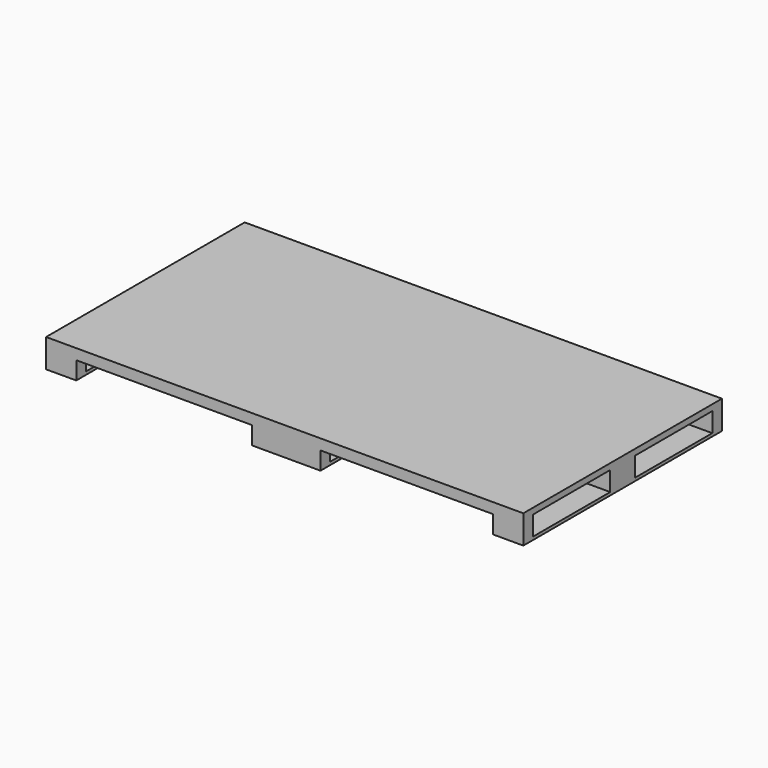
from build123d import *

# Parameters (mm, degrees)
F0_W     = 2008.886
F0_H     = 119.888
F1_DEPTH = 1044.956
F2_W     = 738.8298484659
F2_H     = 75.2589369982
F2_W_2   = 726.7765416155
F3_DEPTH = 1044.956
F4_W     = 406.4
F4_H     = 81.788
F5_DEPTH = 2008.886


with BuildPart() as f1:
    # F0 (on Front) → F1 (new body)
    with BuildSketch(Plane.XZ):
        with Locations((433.0359270411, -67.1071302024)):
            Rectangle(F0_W, F0_H)
    extrude(amount=F1_DEPTH)

    # F2 (on face) → F3 (cut)
    with BuildSketch(Plane(origin=(0, 0, 0), x_dir=(-1, 0, 0), z_dir=(0, 1, 0))):
        with Locations((74.992148726, -89.4216617033)):
            Rectangle(F2_W, F2_H)
        with Locations((-947.0906562333, -89.4216617033)):
            Rectangle(F2_W_2, F2_H)
    extrude(amount=-F3_DEPTH, mode=Mode.SUBTRACT)

    # F4 (on face) → F5 (cut)
    with BuildSketch(Plane(origin=(-571.4070729589, 0, 0), x_dir=(0, -1, 0), z_dir=(-1, 0, 0))):
        with Locations((254, -73.4571302024)):
            Rectangle(F4_W, F4_H)
        with Locations((790.956, -73.4571302024)):
            Rectangle(F4_W, F4_H)
    extrude(amount=-F5_DEPTH, mode=Mode.SUBTRACT)


solid = f1.part
